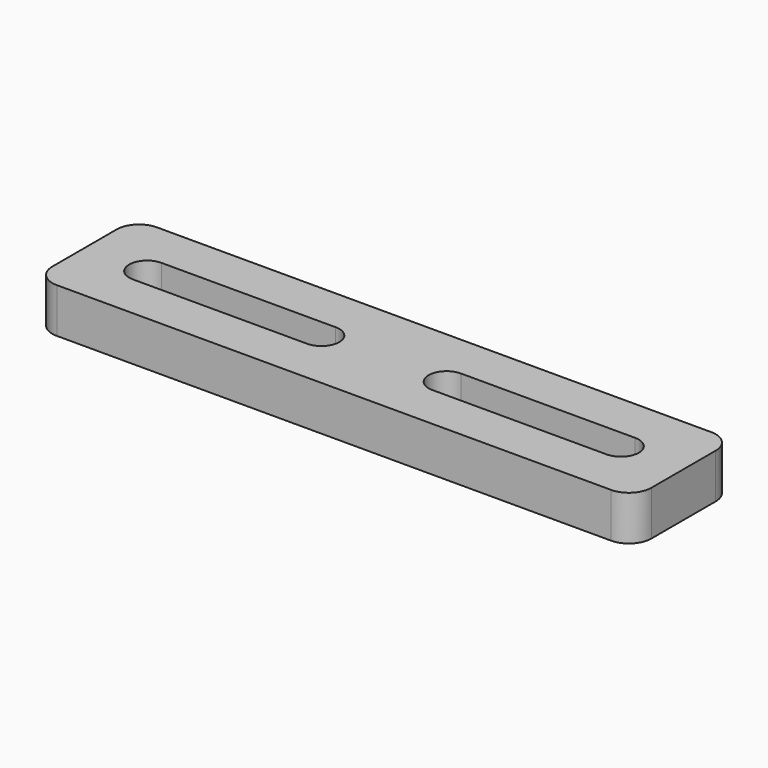
from build123d import *

# Parameters (mm, degrees)
F1_DEPTH = 10
F2_R     = 5


with BuildPart() as f1:
    # F0 (on Top) → F1 (new body)
    with BuildSketch(Plane.XY):
        Polygon((53, 14), (-14, 14), (-14, -14), (53, -14), (120, -14), (120, 14), align=None)
        with BuildLine():
            ThreePointArc((0, -4), (-4, 0), (0, 4))
            Line((0, 4), (39, 4))
            ThreePointArc((39, 4), (43, 0), (39, -4))
            Line((39, -4), (0, -4))
        make_face(mode=Mode.SUBTRACT)
        with BuildLine():
            Line((67, 4), (106, 4))
            ThreePointArc((106, 4), (110, 0), (106, -4))
            Line((106, -4), (67, -4))
            ThreePointArc((67, -4), (63, 0), (67, 4))
        make_face(mode=Mode.SUBTRACT)
    extrude(amount=F1_DEPTH)

    # F2
    f2_edges = [f1.edges().sort_by_distance(p)[0] for p in [
        (-14, 14, 5),
        (-14, -14, 5),
        (120, -14, 5),
        (120, 14, 5),
    ]]
    fillet(f2_edges, radius=F2_R)


solid = f1.part
